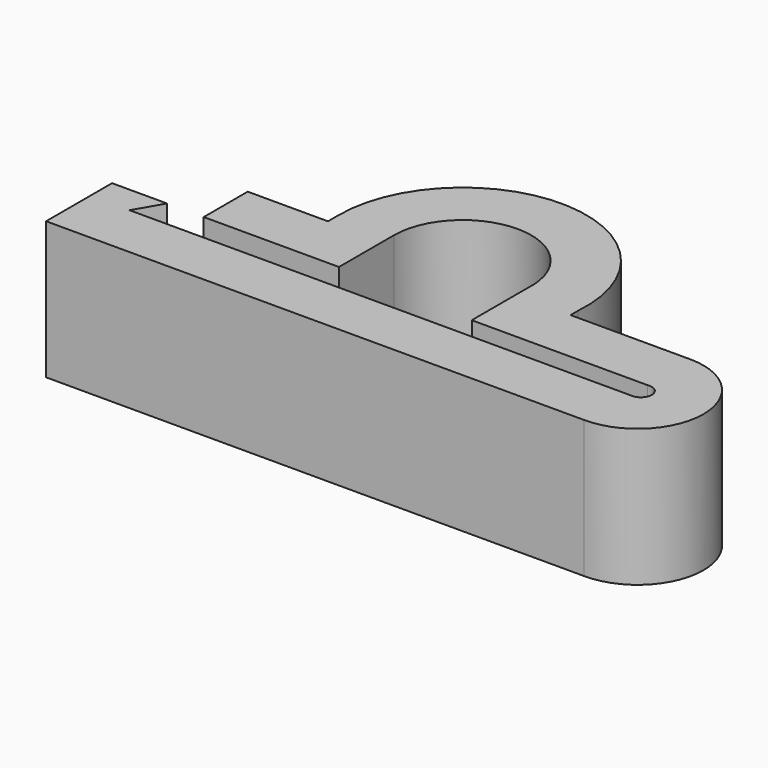
from build123d import *

# Parameters (mm, degrees)
F1_DEPTH = 6.35


with BuildPart() as f1:
    # F0 (on Top) → F1 (new body)
    with BuildSketch(Plane.XY):
        with BuildLine():
            Line((-26.658806, 13.767749), (-26.658806, 11.227749))
            Line((-26.658806, 11.227749), (-20.410406, 11.227749))
            Line((-20.410406, 11.227749), (-20.410406, 14.402749))
            ThreePointArc((-20.410406, 14.402749), (-17.108304, 17.575204), (-14.070583, 14.148749))
            Line((-14.070583, 14.148749), (-14.070583, 10.973749))
            Line((-14.070583, 10.973749), (-5.942583, 10.973749))
            ThreePointArc((-5.942583, 10.973749), (-5.352343, 10.472452), (-5.942579, 9.971151))
            Line((-5.942579, 9.971151), (-29.081303, 9.971151))
            Line((-29.081303, 9.971151), (-28.355805, 11.227749))
            Line((-28.355805, 11.227749), (-30.895805, 11.227749))
            Line((-30.895805, 11.227749), (-30.895805, 7.417749))
            Line((-30.895805, 7.417749), (-6.037373, 7.417749))
            ThreePointArc((-6.037373, 7.417749), (-2.955851, 10.448919), (-6.003897, 13.513749))
            Line((-6.003897, 13.513749), (-11.538724, 13.513749))
            Line((-11.538724, 13.513749), (-11.538724, 13.945549))
            ThreePointArc((-11.538724, 13.945549), (-17.005734, 20.113132), (-22.950406, 14.404529))
            Line((-22.950406, 14.404529), (-22.950406, 13.767749))
            Line((-22.950406, 13.767749), (-26.658806, 13.767749))
        make_face()
    extrude(amount=F1_DEPTH)


solid = f1.part
